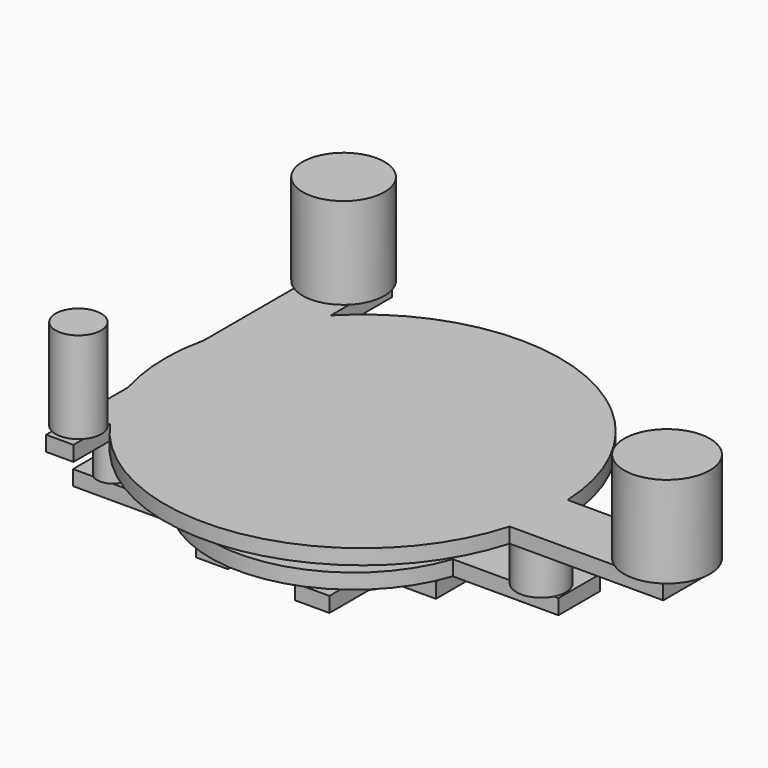
from build123d import *

# Parameters (mm, degrees)
F1_DEPTH  = 25.4
F3_DEPTH  = 25.4
F5_DEPTH  = 25.4
F7_DEPTH  = 25.4
F8_R      = 26.4374178828
F8_R_2    = 20.2158541238
F8_R_3    = 41.5366854277
F9_DEPTH  = 76.96962
F11_DEPTH = 25.4
F12_R     = 38.48481
F12_R_2   = 68.9908119852
F12_R_3   = 72.3516487383
F13_DEPTH = 153.93924


with BuildPart() as f1:
    # F0 (on Top) → F1 (new body)
    with BuildSketch(Plane.XY):
        with BuildLine():
            ThreePointArc((139.0866722242, 32.0284068584), (139.7448851035, 40.7043758766), (139.9644758853, 49.4025057036))
            ThreePointArc((139.9644758853, 49.4025057036), (71.4291716272, 186.9925042301), (-79.6795263886, 215.1750699089))
            Line((-79.6795263886, 215.1750699089), (-79.6795263886, 172.3793298006))
            Line((-79.6795263886, 172.3793298006), (-133.5268542171, 172.3793298006))
            Line((-133.5268542171, 172.3793298006), (-133.5268542171, 189.0120366332))
            ThreePointArc((-133.526854217, 189.0120366332), (-204.7819093266, 47.399960627), (-130.2560642362, -92.5184490373))
            Line((-130.2560642362, -92.5184490373), (-130.2560642362, -78.4356147051))
            Line((-130.2560642362, -78.4356147051), (-76.262794435, -78.4356147051))
            Line((-76.262794435, -78.4356147051), (-76.262794435, -117.3063801224))
            ThreePointArc((-76.262794435, -117.3063801224), (36.4232602358, -108.6350876024), (119.518113847, -32.0284068584))
            Line((119.518113847, -32.0284068584), (75.1415789127, -32.0284068584))
            Line((75.1415789127, -32.0284068584), (75.1415789127, 32.0284068584))
            Line((75.1415789127, 32.0284068584), (139.0866722242, 32.0284068584))
        make_face()
        with BuildLine():
            Line((-79.6795263886, 172.3793298006), (-79.6795263886, 215.1750699089))
            ThreePointArc((-79.6795263886, 215.1750699089), (-107.7476794206, 204.4490783385), (-133.526854217, 189.0120366332))
            Line((-133.5268542171, 189.0120366332), (-133.5268542171, 172.3793298006))
            Line((-133.5268542171, 172.3793298006), (-79.6795263886, 172.3793298006))
        make_face()
        with BuildLine():
            ThreePointArc((-133.526854217, 189.0120366332), (-107.7476794206, 204.4490783385), (-79.6795263886, 215.1750699089))
            Line((-79.6795263886, 215.1750699089), (-79.6795263886, 237.6205772161))
            Line((-79.6795263886, 237.6205772161), (-133.5268542171, 237.6205772161))
            Line((-133.5268542171, 237.6205772161), (-133.5268542171, 189.0120366332))
        make_face()
        with BuildLine():
            Line((190.3256773949, 32.0284068584), (139.0866722242, 32.0284068584))
            ThreePointArc((139.0866722242, 32.0284068584), (132.4435362995, -0.9595801253), (119.518113847, -32.0284068584))
            Line((119.518113847, -32.0284068584), (190.3256773949, -32.0284068584))
            Line((190.3256773949, -32.0284068584), (190.3256773949, 32.0284068584))
        make_face()
        with BuildLine():
            ThreePointArc((119.518113847, -32.0284068584), (132.4435362995, -0.9595801253), (139.0866722242, 32.0284068584))
            Line((139.0866722242, 32.0284068584), (75.1415789127, 32.0284068584))
            Line((75.1415789127, 32.0284068584), (75.1415789127, -32.0284068584))
            Line((75.1415789127, -32.0284068584), (119.518113847, -32.0284068584))
        make_face()
        with BuildLine():
            Line((-130.2560642362, -78.4356147051), (-130.2560642362, -92.5184490373))
            ThreePointArc((-130.2560642362, -92.5184490373), (-104.3353903251, -107.2560814152), (-76.262794435, -117.3063801224))
            Line((-76.262794435, -117.3063801224), (-76.262794435, -78.4356147051))
            Line((-76.262794435, -78.4356147051), (-130.2560642362, -78.4356147051))
        make_face()
        with BuildLine():
            ThreePointArc((-76.262794435, -117.3063801224), (-104.3353903251, -107.2560814152), (-130.2560642362, -92.5184490373))
            Line((-130.2560642362, -92.5184490373), (-130.2560642362, -137.0555609465))
            Line((-130.2560642362, -137.0555609465), (-76.262794435, -137.0555609465))
            Line((-76.262794435, -137.0555609465), (-76.262794435, -117.3063801224))
        make_face()
    extrude(amount=F1_DEPTH)

    # F2 (on Top) → F3 (join)
    with BuildSketch(Plane.XY):
        with BuildLine():
            ThreePointArc((75.6118036807, -29.2504710738), (99.0030626057, 12.8049370358), (107.1065195267, 60.2406022181))
            ThreePointArc((107.1065195267, 60.2406022181), (104.2125651571, 88.852840411), (95.6479245708, 116.3061112165))
            Line((95.6479245708, 116.3061112165), (32.3053076863, 116.3061112165))
            Line((32.3053076863, 116.3061112165), (32.3053076863, 185.8650083866))
            ThreePointArc((32.3053076863, 185.8650083866), (-89.6480521885, 192.5894553657), (-172.2460990224, 102.6149988174))
            Line((-172.2460990224, 102.6149988174), (-127.7187615633, 102.6149988174))
            Line((-127.7187615633, 102.6149988174), (-127.7187615633, 32.8334420919))
            Line((-127.7187615633, 32.8334420919), (-176.0207239306, 32.8334420919))
            ThreePointArc((-176.0207239306, 32.8334420919), (-103.9642758165, -65.3340546547), (17.6107399166, -72.2985849202))
            Line((17.6107399166, -72.2985849202), (17.6107399166, 0))
            Line((17.6107399166, 0), (75.6118036807, 0))
            Line((75.6118036807, 0), (75.6118036807, -29.2504710738))
        make_face()
        with BuildLine():
            Line((32.3053076863, 116.3061112165), (95.6479245708, 116.3061112165))
            ThreePointArc((95.6479245708, 116.3061112165), (69.8653962579, 156.4480764432), (32.3053076863, 185.8650083866))
            Line((32.3053076863, 185.8650083866), (32.3053076863, 116.3061112165))
        make_face()
        with BuildLine():
            ThreePointArc((32.3053076863, 185.8650083866), (69.8653962579, 156.4480764432), (95.6479245708, 116.3061112165))
            Line((95.6479245708, 116.3061112165), (104.6530529857, 116.3061112165))
            Line((104.6530529857, 116.3061112165), (104.6530529857, 199.5911747217))
            Line((104.6530529857, 199.5911747217), (32.3053076863, 199.5911747217))
            Line((32.3053076863, 199.5911747217), (32.3053076863, 185.8650083866))
        make_face()
        with BuildLine():
            Line((75.6118036807, -113.002628088), (75.6118036807, -29.2504710738))
            ThreePointArc((75.6118036807, -29.2504710738), (49.3762482748, -54.4999311), (17.6107399166, -72.2985849202))
            Line((17.6107399166, -72.2985849202), (17.6107399166, -113.002628088))
            Line((17.6107399166, -113.002628088), (75.6118036807, -113.002628088))
        make_face()
        with BuildLine():
            ThreePointArc((17.6107399166, -72.2985849202), (49.3762482748, -54.4999311), (75.6118036807, -29.2504710738))
            Line((75.6118036807, -29.2504710738), (75.6118036807, 0))
            Line((75.6118036807, 0), (17.6107399166, 0))
            Line((17.6107399166, 0), (17.6107399166, -72.2985849202))
        make_face()
        with BuildLine():
            Line((-127.7187615633, 102.6149988174), (-172.2460990224, 102.6149988174))
            ThreePointArc((-172.2460990224, 102.6149988174), (-178.4651931082, 67.9585352452), (-176.0207239306, 32.8334420919))
            Line((-176.0207239306, 32.8334420919), (-127.7187615633, 32.8334420919))
            Line((-127.7187615633, 32.8334420919), (-127.7187615633, 102.6149988174))
        make_face()
        with BuildLine():
            ThreePointArc((-176.0207239306, 32.8334420919), (-178.4651931082, 67.9585352452), (-172.2460990224, 102.6149988174))
            Line((-172.2460990224, 102.6149988174), (-229.236587882, 102.6149988174))
            Line((-229.236587882, 102.6149988174), (-229.236587882, 32.8334420919))
            Line((-229.236587882, 32.8334420919), (-176.0207239306, 32.8334420919))
        make_face()
    extrude(amount=-F3_DEPTH)

    # F4 (on face) → F5 (join)
    with BuildSketch(Plane.XY.offset(25.4)):
        with BuildLine():
            ThreePointArc((70.1512694359, -33.5902639723), (99.6199988318, 8.9072537868), (110.0005673225, 59.5697529918))
            ThreePointArc((110.0005673225, 59.5697529918), (82.2613910369, 139.427420647), (10.990194045, 184.8930721179))
            Line((10.990194045, 184.8930721179), (10.990194045, 151.1777639389))
            Line((10.990194045, 151.1777639389), (-10.990194045, 151.1777639389))
            Line((-10.990194045, 151.1777639389), (-10.990194045, 188.1514055076))
            ThreePointArc((-10.990194045, 188.1514055076), (-113.6185061509, 146.791471362), (-146.3052292726, 41.0805791616))
            Line((-146.3052292726, 41.0805791616), (-97.673587501, 41.0805791616))
            Line((-97.673587501, 41.0805791616), (-97.673587501, 5.8405236105))
            Line((-97.673587501, 5.8405236105), (-135.899116833, 5.8405236105))
            ThreePointArc((-135.899116833, 5.8405236105), (-66.1831399884, -60.2267115252), (29.8632881141, -59.6969619413))
            Line((29.8632881141, -59.6969619413), (29.8632881141, 0))
            Line((29.8632881141, 0), (70.1512694359, 0))
            Line((70.1512694359, 0), (70.1512694359, -33.5902639723))
        make_face()
        with BuildLine():
            Line((10.990194045, 151.1777639389), (10.990194045, 184.8930721179))
            ThreePointArc((10.990194045, 184.8930721179), (0.070386323, 186.9970578415), (-10.990194045, 188.1514055076))
            Line((-10.990194045, 188.1514055076), (-10.990194045, 151.1777639389))
            Line((-10.990194045, 151.1777639389), (10.990194045, 151.1777639389))
        make_face()
        with BuildLine():
            ThreePointArc((-10.990194045, 188.1514055076), (0.070386323, 186.9970578415), (10.990194045, 184.8930721179))
            Line((10.990194045, 184.8930721179), (10.990194045, 222.8371798992))
            Line((10.990194045, 222.8371798992), (-10.990194045, 222.8371798992))
            Line((-10.990194045, 222.8371798992), (-10.990194045, 188.1514055076))
        make_face()
        with BuildLine():
            Line((70.1512694359, -98.6443261582), (70.1512694359, -33.5902639723))
            ThreePointArc((70.1512694359, -33.5902639723), (51.2341659256, -48.5369510828), (29.8632881141, -59.6969619413))
            Line((29.8632881141, -59.6969619413), (29.8632881141, -98.6443261582))
            Line((29.8632881141, -98.6443261582), (70.1512694359, -98.6443261582))
        make_face()
        with BuildLine():
            ThreePointArc((29.8632881141, -59.6969619413), (51.2341659256, -48.5369510828), (70.1512694359, -33.5902639723))
            Line((70.1512694359, -33.5902639723), (70.1512694359, 0))
            Line((70.1512694359, 0), (29.8632881141, 0))
            Line((29.8632881141, 0), (29.8632881141, -59.6969619413))
        make_face()
        with BuildLine():
            Line((-97.673587501, 41.0805791616), (-146.3052292726, 41.0805791616))
            ThreePointArc((-146.3052292726, 41.0805791616), (-142.3651060466, 23.087617163), (-135.899116833, 5.8405236105))
            Line((-135.899116833, 5.8405236105), (-97.673587501, 5.8405236105))
            Line((-97.673587501, 5.8405236105), (-97.673587501, 41.0805791616))
        make_face()
        with BuildLine():
            ThreePointArc((-135.899116833, 5.8405236105), (-142.3651060466, 23.087617163), (-146.3052292726, 41.0805791616))
            Line((-146.3052292726, 41.0805791616), (-187.2756508942, 41.0805791616))
            Line((-187.2756508942, 41.0805791616), (-187.2756508942, 5.8405236105))
            Line((-187.2756508942, 5.8405236105), (-135.899116833, 5.8405236105))
        make_face()
    extrude(amount=F5_DEPTH)

    # F6 (on face) → F7 (join)
    with BuildSketch(Plane.XY.offset(50.8)):
        with BuildLine():
            ThreePointArc((228.5385191266, -44.0925620496), (238.0517383383, -5.9294068545), (241.2510363332, 33.27125955))
            ThreePointArc((241.2510363332, 33.27125955), (241.1904526245, 38.6832670159), (241.0087318622, 44.0925620496))
            Line((241.0087318622, 44.0925620496), (71.4222490788, 44.0925620496))
            Line((71.4222490788, 44.0925620496), (71.4222490788, -44.0925620496))
            Line((71.4222490788, -44.0925620496), (228.5385191266, -44.0925620496))
        make_face()
        with BuildLine():
            ThreePointArc((241.0087318622, 44.0925620496), (241.1904526245, 38.6832670159), (241.2510363332, 33.27125955))
            ThreePointArc((241.2510363332, 33.27125955), (238.0517383383, -5.9294068545), (228.5385191266, -44.0925620496))
            Line((228.5385191266, -44.0925620496), (406.4791202545, -44.0925620496))
            Line((406.4791202545, -44.0925620496), (406.4791202545, 44.0925620496))
            Line((406.4791202545, 44.0925620496), (241.0087318622, 44.0925620496))
        make_face()
        with BuildLine():
            Line((71.4222490788, 44.0925620496), (241.0087318622, 44.0925620496))
            ThreePointArc((241.0087318622, 44.0925620496), (98.4413229505, 253.8543066571), (-153.0269761889, 220.8520323038))
            Line((-153.0269761889, 220.8520323038), (-62.6387745142, 220.8520323038))
            Line((-62.6387745142, 220.8520323038), (-62.6387745142, 134.7823292017))
            Line((-62.6387745142, 134.7823292017), (-219.9260547186, 134.7823292017))
            ThreePointArc((-219.9260547186, 134.7823292017), (-241.5076828609, 14.0880388149), (-201.1044976944, -101.672321558))
            Line((-201.1044976944, -101.672321558), (-37.5261008739, -101.672321558))
            Line((-37.5261008739, -101.672321558), (-37.5261008739, -155.774474144))
            Line((-37.5261008739, -155.774474144), (-151.2073352892, -155.774474144))
            ThreePointArc((-151.2073352892, -155.774474144), (67.7026866989, -198.6667521566), (228.5385191266, -44.0925620496))
            Line((228.5385191266, -44.0925620496), (71.4222490788, -44.0925620496))
            Line((71.4222490788, -44.0925620496), (71.4222490788, 44.0925620496))
        make_face()
        with BuildLine():
            Line((-62.6387745142, 220.8520323038), (-153.0269761889, 220.8520323038))
            ThreePointArc((-153.0269761889, 220.8520323038), (-191.3909525036, 181.6370069899), (-219.9260547186, 134.7823292017))
            Line((-219.9260547186, 134.7823292017), (-62.6387745142, 134.7823292017))
            Line((-62.6387745142, 134.7823292017), (-62.6387745142, 220.8520323038))
        make_face()
        with BuildLine():
            ThreePointArc((-219.9260547186, 134.7823292017), (-191.3909525036, 181.6370069899), (-153.0269761889, 220.8520323038))
            Line((-153.0269761889, 220.8520323038), (-325.9604126215, 220.8520323038))
            Line((-325.9604126215, 220.8520323038), (-325.9604126215, 134.7823292017))
            Line((-325.9604126215, 134.7823292017), (-219.9260547186, 134.7823292017))
        make_face()
        with BuildLine():
            Line((-322.412699461, -155.774474144), (-151.2073352892, -155.774474144))
            ThreePointArc((-151.2073352892, -155.774474144), (-178.2267591423, -130.6332880699), (-201.1044976944, -101.672321558))
            Line((-201.1044976944, -101.672321558), (-322.412699461, -101.672321558))
            Line((-322.412699461, -101.672321558), (-322.412699461, -155.774474144))
        make_face()
        with BuildLine():
            ThreePointArc((-201.1044976944, -101.672321558), (-178.2267591423, -130.6332880699), (-151.2073352892, -155.774474144))
            Line((-151.2073352892, -155.774474144), (-37.5261008739, -155.774474144))
            Line((-37.5261008739, -155.774474144), (-37.5261008739, -101.672321558))
            Line((-37.5261008739, -101.672321558), (-201.1044976944, -101.672321558))
        make_face()
    extrude(amount=F7_DEPTH)

    # F8 (on face) → F9 (join)
    with BuildSketch(Plane.XY.offset(76.2)):
        with Locations((-271.9717621803, -134.8876059055)):
            Circle(F8_R)
        with Locations((-257.3208808899, 185.7025772333)):
            Circle(F8_R_2)
        with Locations((362.1033132076, -24.7969031334)):
            Circle(F8_R_3)
    extrude(amount=F9_DEPTH)

    # F10 (on face) → F11 (join)
    with BuildSketch(Plane.XY.offset(153.16962)):
        with BuildLine():
            ThreePointArc((351.5808124195, -78.1800076366), (361.048264133, -33.157434081), (364.2242616474, 12.7400365607))
            ThreePointArc((364.2242616474, 12.7400365607), (364.1300024852, 20.6653607746), (363.8472783241, 28.5862013698))
            Line((363.8472783241, 28.5862013698), (113.7096881866, 28.5862013698))
            Line((113.7096881866, 28.5862013698), (113.7096881866, -78.1800076365))
            Line((113.7096881866, -78.1800076365), (351.5808124195, -78.1800076365))
        make_face()
        with BuildLine():
            ThreePointArc((363.8472783241, 28.5862013698), (364.1300024852, 20.6653607746), (364.2242616474, 12.7400365607))
            ThreePointArc((364.2242616474, 12.7400365607), (361.048264133, -33.157434081), (351.5808124195, -78.1800076366))
            Line((351.5808124195, -78.1800076365), (610.4969382286, -78.1800076365))
            Line((610.4969382286, -78.1800076365), (610.4969382286, 28.5862013698))
            Line((610.4969382286, 28.5862013698), (363.8472783241, 28.5862013698))
        make_face()
        with BuildLine():
            Line((113.7096881866, 28.5862013698), (363.8472783241, 28.5862013698))
            ThreePointArc((363.8472783241, 28.5862013698), (148.7684632838, 324.4622780693), (-208.2230746746, 244.7215026257))
            Line((-208.2230746746, 244.7215026257), (-208.2230746746, 6.5638124943))
            Line((-208.2230746746, 6.5638124943), (-294.2146956921, 6.5638124943))
            Line((-294.2146956921, 6.5638124943), (-294.2146956921, 85.3980265007))
            ThreePointArc((-294.2146956921, 85.3980265007), (-302.0326858138, 1.204189161), (-288.4076088667, -82.2468773015))
            Line((-288.4076088667, -82.2468773015), (-288.4076088667, -24.3580341339))
            Line((-288.4076088667, -24.3580341339), (-242.2183901072, -24.3580341339))
            Line((-242.2183901072, -24.3580341339), (-242.2183901072, -178.0348799858))
            ThreePointArc((-242.2183901071, -178.0348799858), (86.256592107, -315.8743057274), (351.5808124195, -78.1800076366))
            Line((351.5808124195, -78.1800076365), (113.7096881866, -78.1800076365))
            Line((113.7096881866, -78.1800076365), (113.7096881866, 28.5862013698))
        make_face()
        with BuildLine():
            Line((-208.2230746746, 6.5638124943), (-208.2230746746, 244.7215026257))
            ThreePointArc((-208.2230746746, 244.7215026257), (-262.2466225859, 171.0117625893), (-294.2146956921, 85.3980265007))
            Line((-294.2146956921, 85.3980265007), (-294.2146956921, 6.5638124943))
            Line((-294.2146956921, 6.5638124943), (-208.2230746746, 6.5638124943))
        make_face()
        with BuildLine():
            ThreePointArc((-294.2146956921, 85.3980265007), (-262.2466225859, 171.0117625893), (-208.2230746746, 244.7215026257))
            Line((-208.2230746746, 244.7215026257), (-208.2230746746, 373.2942044735))
            Line((-208.2230746746, 373.2942044735), (-294.2146956921, 373.2942044735))
            Line((-294.2146956921, 373.2942044735), (-294.2146956921, 85.3980265007))
        make_face()
        with BuildLine():
            Line((-242.2183901072, -255.0694346428), (-242.2183901072, -178.0348799858))
            ThreePointArc((-242.2183901071, -178.0348799858), (-269.1587253652, -131.9952974529), (-288.4076088667, -82.2468773015))
            Line((-288.4076088667, -82.2468773015), (-288.4076088667, -255.0694346428))
            Line((-288.4076088667, -255.0694346428), (-242.2183901072, -255.0694346428))
        make_face()
        with BuildLine():
            ThreePointArc((-288.4076088667, -82.2468773015), (-269.1587253652, -131.9952974529), (-242.2183901071, -178.0348799858))
            Line((-242.2183901072, -178.0348799858), (-242.2183901072, -24.3580341339))
            Line((-242.2183901072, -24.3580341339), (-288.4076088667, -24.3580341339))
            Line((-288.4076088667, -24.3580341339), (-288.4076088667, -82.2468773015))
        make_face()
    extrude(amount=F11_DEPTH)

    # F12 (on face) → F13 (join)
    with BuildSketch(Plane.XY.offset(178.56962)):
        with Locations((-271.3119983673, -208.3401530981)):
            Circle(F12_R)
        with Locations((-256.9891810417, 332.640171051)):
            Circle(F12_R_2)
        with Locations((569.8156356812, -19.3193554878)):
            Circle(F12_R_3)
    extrude(amount=F13_DEPTH)


solid = f1.part
